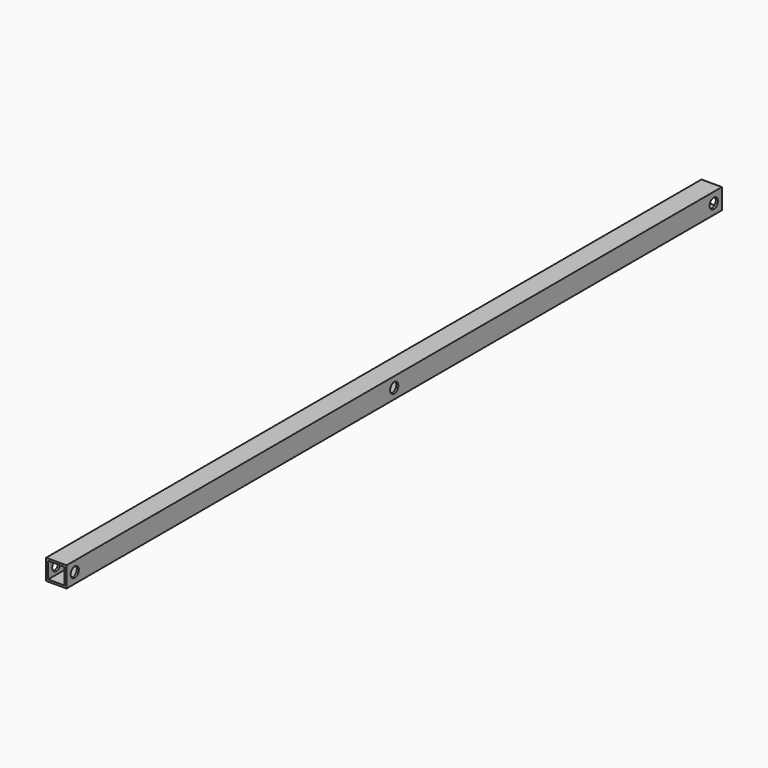
from build123d import *

# Parameters (mm, degrees)
F0_W     = 20
F0_H     = 20
F0_W_2   = 16
F0_H_2   = 16
F1_DEPTH = 800
F2_R     = 5
F3_DEPTH = 20.001


with BuildPart() as f1:
    # F0 (on Front) → F1 (new body)
    with BuildSketch(Plane.XZ):
        with Locations((10, 10)):
            Rectangle(F0_W, F0_H)
        with Locations((10, 10)):
            Rectangle(F0_W_2, F0_H_2, mode=Mode.SUBTRACT)
    extrude(amount=F1_DEPTH)

    # F2 (on face) → F3 (cut, through all)
    with BuildSketch(Plane.YZ.offset(20)):
        with Locations((-790, 10)):
            Circle(F2_R)
        with Locations((-400, 10)):
            Circle(F2_R)
        with Locations((-10, 10)):
            Circle(F2_R)
    extrude(amount=-F3_DEPTH, mode=Mode.SUBTRACT)


solid = f1.part
